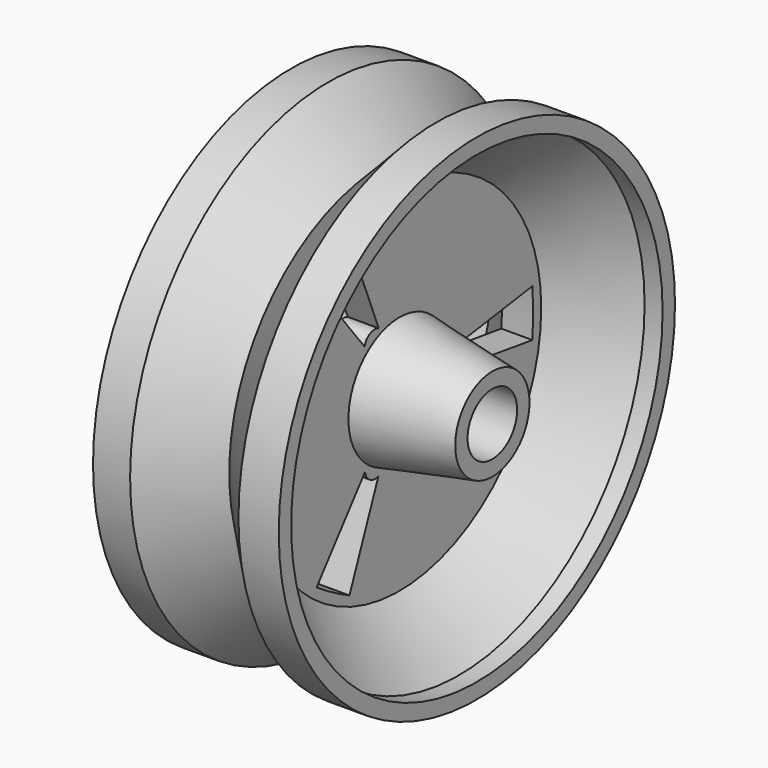
from build123d import *

# Parameters (mm, degrees)
F2_R     = 6.35
F3_DEPTH = 76.2
F5_DEPTH = 41.276


with BuildPart() as f1:
    # F0 (on Top) → F1 (revolve)
    with BuildSketch(Plane.XY):
        Polygon((0, 9.525), (0, 0), (22.225, 0), (44.45, 0), (44.45, 9.525), (25.4, 13.086654), (25.4, 36.349638), (37.581098, 47.625), (41.275, 47.625), (41.275, 50.8), (33.009252, 50.8), (22.225, 39.692349), (10.784252, 50.8), (3.175, 50.8), (3.175, 47.625), (6.868902, 47.625), (19.05, 36.349638), (19.05, 13.086654), align=None)
    revolve(axis=Axis((22.225, 0, 0), (1, 0, 0)))

    # F2 (on face) → F3 (cut)
    with BuildSketch(Plane.YZ.offset(44.45)):
        Circle(F2_R)
    extrude(amount=-F3_DEPTH, mode=Mode.SUBTRACT)

    # F4 (on face) → F5 (cut, through all)
    with BuildSketch(Plane.YZ.offset(41.275)):
        with BuildLine():
            ThreePointArc((-12.80801, 31.942442), (-17.109062, 29.659415), (-21.236747, 27.076108))
            Line((-21.236747, 27.076108), (-8.941196, 11.399711))
            ThreePointArc((-8.941196, 11.399711), (-7.569379, 13.189774), (-5.315075, 13.255492))
            Line((-5.315075, 13.255492), (-12.80801, 31.942442))
        make_face()
        with BuildLine():
            Line((34.066971, 4.853508), (14.343037, 2.043447))
            ThreePointArc((14.343037, 2.043447), (15.207368, -0.039612), (14.13713, -2.024756))
            Line((14.13713, -2.024756), (34.066971, -4.879159))
            ThreePointArc((34.066971, -4.879159), (34.240338, -0.012825), (34.066971, 4.853508))
        make_face()
        with BuildLine():
            ThreePointArc((-21.258962, -27.063283), (-17.131276, -29.646589), (-12.830224, -31.929617))
            Line((-12.830224, -31.929617), (-5.401842, -13.443158))
            ThreePointArc((-5.401842, -13.443158), (-7.63799, -13.150161), (-8.822055, -11.230736))
            Line((-8.822055, -11.230736), (-21.258962, -27.063283))
        make_face()
    extrude(amount=-F5_DEPTH, mode=Mode.SUBTRACT)


solid = f1.part
